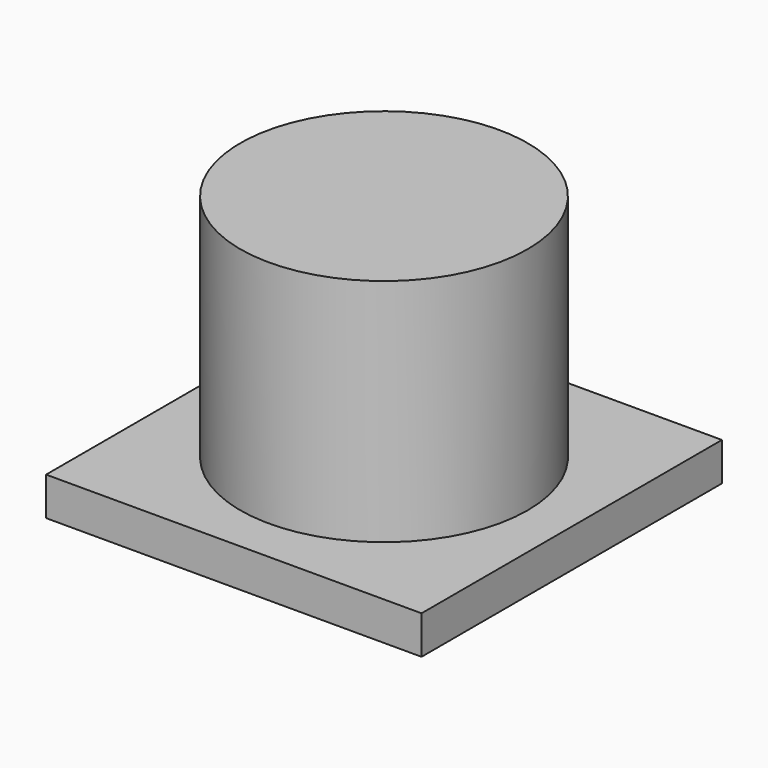
from build123d import *

# Parameters (mm, degrees)
CYLINDER_R     = 3.75
CYLINDER_DEPTH = 7
BOX_W          = 9.8
BOX_H          = 9.8
BOX_DEPTH      = 1


with BuildPart() as cilindro:
    # Cylinder → Cylinder (new body)
    with BuildSketch(Plane(origin=(5, 5, 0), x_dir=(1, 0, 0), z_dir=(0, 0, 1))):
        Circle(CYLINDER_R)
    extrude(amount=CYLINDER_DEPTH)


with BuildPart() as obj1:
    # Box → Box (new body)
    with BuildSketch(Plane(origin=(0.1, 0.1, 0), x_dir=(1, 0, 0), z_dir=(0, 0, 1))):
        with Locations((4.9, 4.9)):
            Rectangle(BOX_W, BOX_H)
    extrude(amount=BOX_DEPTH)

    # Fusion: union Cilindro
    add(cilindro.part)


solid = obj1.part
